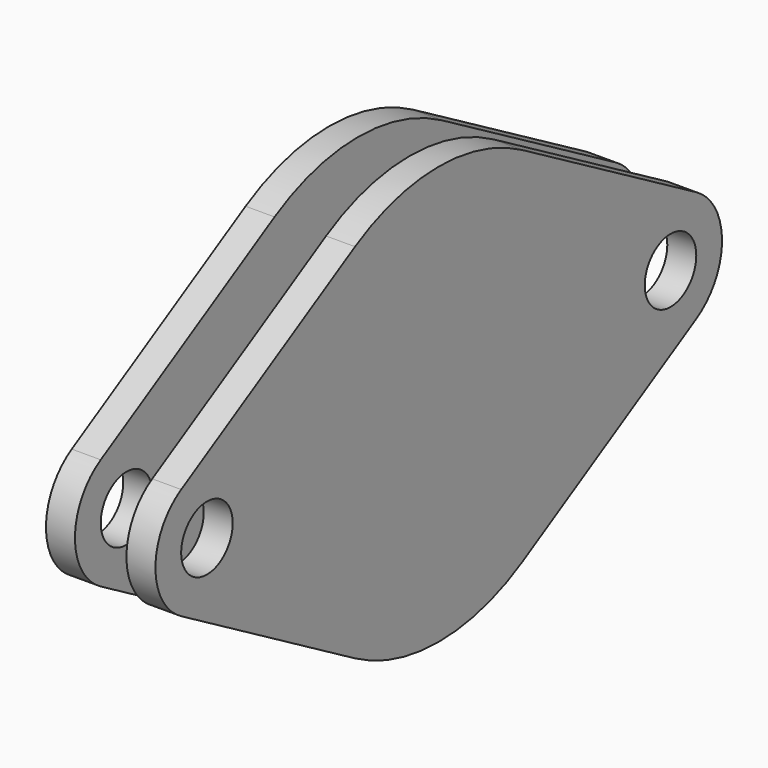
from build123d import *

# Parameters (mm, degrees)
SKETCH005_R      = 10
EXTRUDE001_DEPTH = 9


with BuildPart() as extrude001:
    # Sketch005 (on Face4 of Extrude) → Extrude001 (new body)
    with BuildSketch(Plane.YZ.offset(417)):
        with BuildLine():
            Line((32.5, 56.291651246), (100, 17.3205080757))
            ThreePointArc((100, -17.3205080757), (110, 0), (100, 17.3205080757))
            Line((100, -17.3205080757), (32.5, -56.291651246))
            ThreePointArc((-32.5, -56.291651246), (0, -65), (32.5, -56.291651246))
            Line((-32.5, -56.291651246), (-100, -17.3205080757))
            ThreePointArc((-100, 17.3205080757), (-110, 0), (-100, -17.3205080757))
            Line((-100, 17.3205080757), (-32.5, 56.291651246))
            ThreePointArc((32.5, 56.291651246), (0, 65), (-32.5, 56.291651246))
        make_face()
        with Locations((90, 0)):
            Circle(SKETCH005_R, mode=Mode.SUBTRACT)
        with Locations((-90, 0)):
            Circle(SKETCH005_R, mode=Mode.SUBTRACT)
    extrude(amount=EXTRUDE001_DEPTH)


with BuildPart() as extrude002:
    # Clone base: copy of Extrude001
    add(extrude001.part)


with BuildPart() as extrude002_1:
    # Clone placement: moved
    add(extrude002.part.moved(Location((-25, 0, 0))))


with BuildPart() as compound:
    # Compound base: copy of Extrude001
    add(extrude001.part)

    # Compound: union Extrude002
    add(extrude002_1.part)


with BuildPart() as part_mirroring:
    # Part__Mirroring: instance of Compound
    add(compound.part.mirror(Plane(origin=(0, 0, 0), x_dir=(0, -1, 0), z_dir=(1, 0, 0))))


solid = part_mirroring.part
